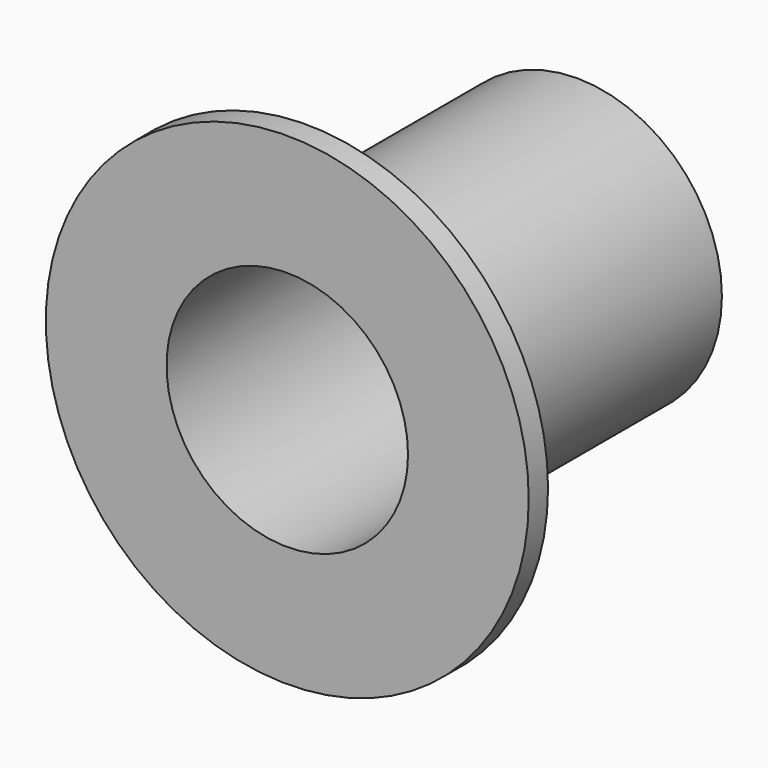
from build123d import *

# Parameters (mm, degrees)
F0_R     = 6
F0_R_2   = 5
F1_DEPTH = 15
F2_R     = 10
F2_R_2   = 5
F3_DEPTH = 1


with BuildPart() as f1:
    # F0 (on Front) → F1 (new body)
    with BuildSketch(Plane.XZ):
        Circle(F0_R)
        Circle(F0_R_2, mode=Mode.SUBTRACT)
    extrude(amount=-F1_DEPTH)

    # F2 (on Front) → F3 (join)
    with BuildSketch(Plane.XZ):
        Circle(F2_R)
        Circle(F2_R_2, mode=Mode.SUBTRACT)
    extrude(amount=-F3_DEPTH)


solid = f1.part
